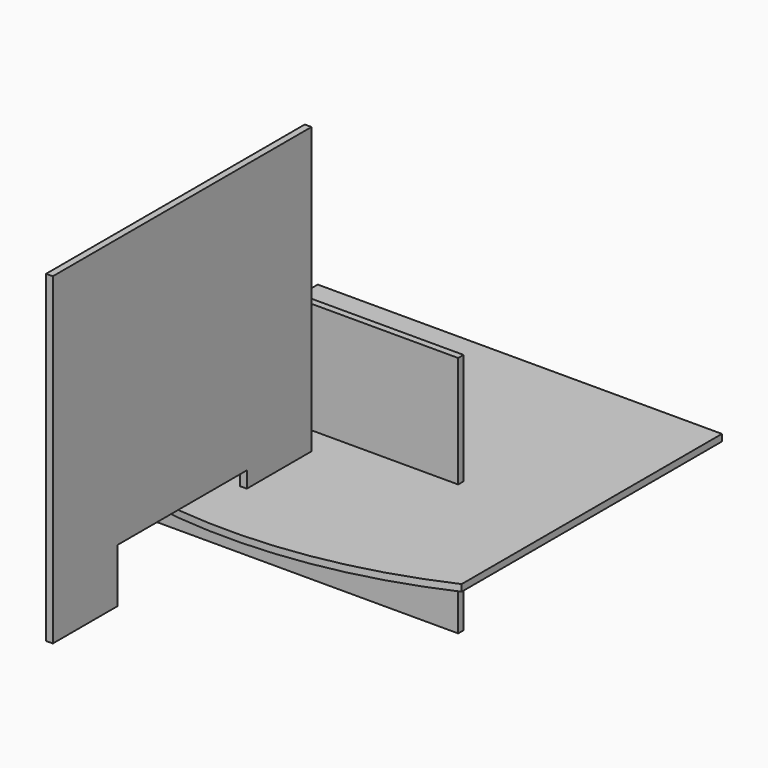
from build123d import *

# Parameters (mm, degrees)
F1_DEPTH = 12.7
F3_DEPTH = 12.7
F4_W     = 584.2
F4_H     = 457.2
F5_DEPTH = 12.7
F6_W     = 584.2
F6_H     = 101.6
F7_DEPTH = 12.7


with BuildPart() as f1:
    # F0 (on Top) → F1 (new body)
    with BuildSketch(Plane.XY):
        with BuildLine():
            Line((437.039518, 355.96361), (-324.960482, 355.96361))
            Line((-324.960482, 355.96361), (-324.960482, -253.63639))
            ThreePointArc((-324.960482, -253.63639), (55.607429, -338.773453), (437.039518, -257.595773))
            Line((437.039518, -257.595773), (437.039518, 355.96361))
        make_face()
    extrude(amount=F1_DEPTH)


with BuildPart() as f3:
    # F2 (on Right) → F3 (new body)
    with BuildSketch(Plane.YZ):
        Polygon((-65.170189, 551.157992), (-674.770189, 551.157992), (-674.770189, -58.442008), (-522.370189, -58.442008), (-522.370189, 43.157992), (-217.570189, 43.157992), (-217.570189, -58.442008), (-65.170189, -58.442008), align=None)
    extrude(amount=-F3_DEPTH)


with BuildPart() as f5:
    # F4 (on Front) → F5 (new body)
    with BuildSketch(Plane.XZ):
        with Locations((-57.500612, -5.929083)):
            Rectangle(F4_W, F4_H)
    extrude(amount=F5_DEPTH)


with BuildPart() as f7:
    # F6 (on Top) → F7 (new body)
    with BuildSketch(Plane.XY):
        with Locations((-163.075032, 63.181399)):
            Rectangle(F6_W, F6_H)
    extrude(amount=F7_DEPTH)


solid = Compound([f1.part, f3.part, f5.part, f7.part])
